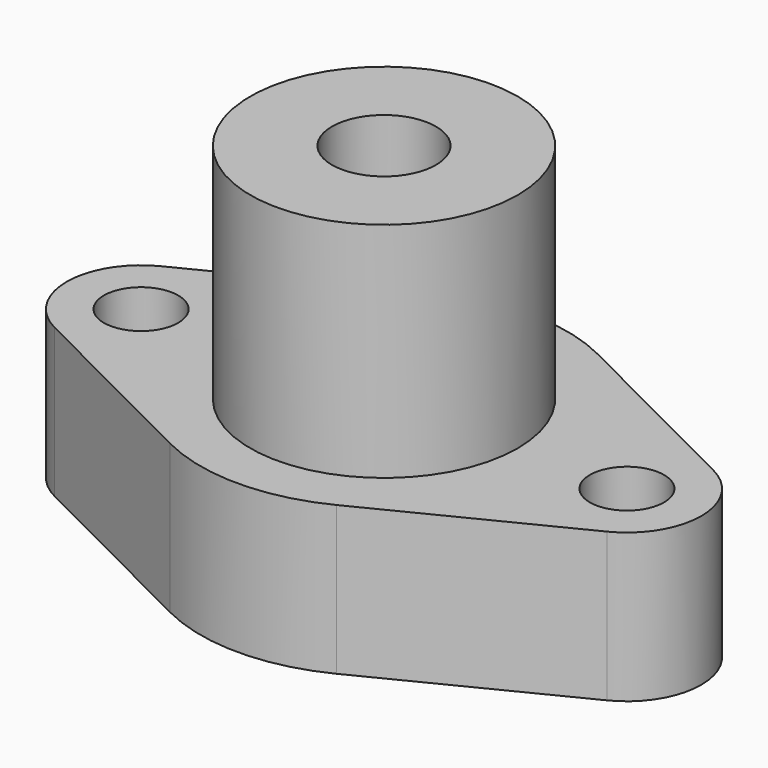
from build123d import *

# Parameters (mm, degrees)
F1_DEPTH = 20
F2_R     = 10
F3_R     = 25
F5_D     = 10
F6_R     = 18
F7_DEPTH = 30
F9_D     = 14
F9_DEPTH = 31
F9_TIP   = 4.2060243332


with BuildPart() as f1:
    # F0 (on Top) → F1 (new body)
    with BuildSketch(Plane.XY):
        Polygon((0, 27.6), (-55, 0), (0, -27.6), (55, 0), align=None)
    extrude(amount=F1_DEPTH)

    # F2
    f2_edges = [f1.edges().sort_by_distance(p)[0] for p in [
        (55, 0, 10),
        (-55, 0, 10),
    ]]
    fillet(f2_edges, radius=F2_R)

    # F3
    f3_edges = [f1.edges().sort_by_distance(p)[0] for p in [
        (0, 27.6, 10),
        (0, -27.6, 10),
    ]]
    fillet(f3_edges, radius=F3_R)

    # F5 (through all)
    with Locations(Plane.XY.offset(20)):
        with Locations((-32.7041102381, 0), (32.7041102381, 0)):
            Hole(F5_D / 2)

    # F6 (on face) → F7 (join)
    with BuildSketch(Plane.XY.offset(20)):
        Circle(F6_R)
    extrude(amount=F7_DEPTH)

    # F9
    with Locations(Plane.XY.offset(50)):
        with Locations((0, 0)):
            Hole(F9_D / 2, depth=F9_DEPTH)
            with Locations((0, 0, -(F9_DEPTH + F9_TIP / 2))):  # 118° drill point
                Cone(0, F9_D / 2, F9_TIP, mode=Mode.SUBTRACT)


solid = f1.part
